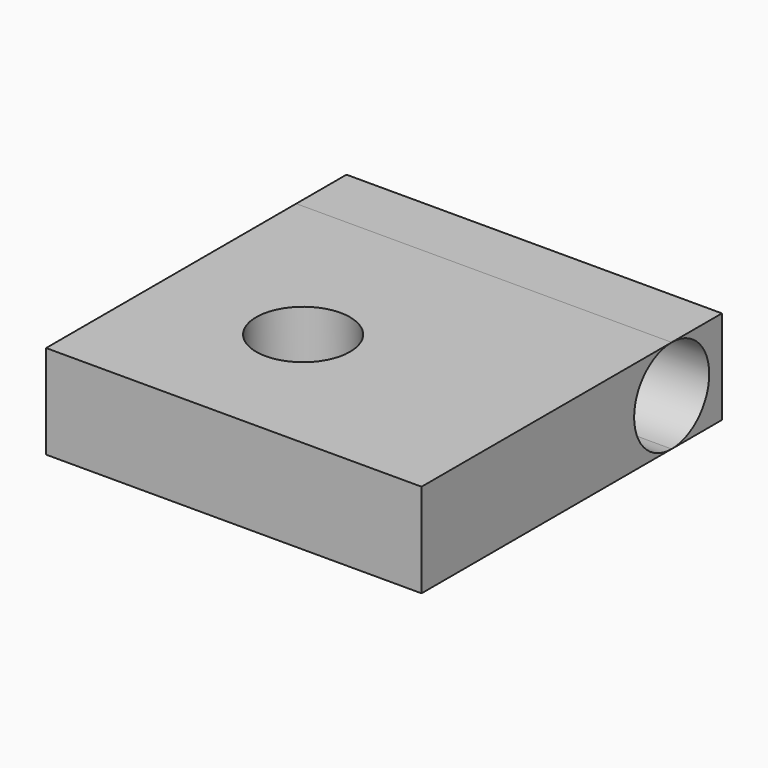
from build123d import *

# Parameters (mm, degrees)
F0_W     = 101.6
F0_H     = 101.6
F1_DEPTH = 25.4
F3_DEPTH = 101.601
F4_R     = 12.7
F5_DEPTH = 25.401


with BuildPart() as f1:
    # F0 (on Top) → F1 (new body)
    with BuildSketch(Plane.XY):
        with Locations((-90.623922, -26.203949)):
            Rectangle(F0_W, F0_H)
    extrude(amount=F1_DEPTH)

    # F2 (on face) → F3 (cut, through all)
    with BuildSketch(Plane(origin=(-141.423922, 0, 0), x_dir=(0, -1, 0), z_dir=(-1, 0, 0))):
        with BuildLine():
            ThreePointArc((-7.599026, 0), (1.38123, 3.719744), (5.100974, 12.7))
            ThreePointArc((5.100974, 12.7), (1.38123, 21.680256), (-7.599026, 25.4))
            ThreePointArc((-7.599026, 25.4), (-20.299026, 12.7), (-7.599026, 0))
        make_face()
    extrude(amount=-F3_DEPTH, mode=Mode.SUBTRACT)

    # F4 (on face) → F5 (cut, through all)
    with BuildSketch(Plane.XY.offset(25.4)):
        with Locations((-102.88769, -38.240742)):
            Circle(F4_R)
    extrude(amount=-F5_DEPTH, mode=Mode.SUBTRACT)


solid = f1.part
